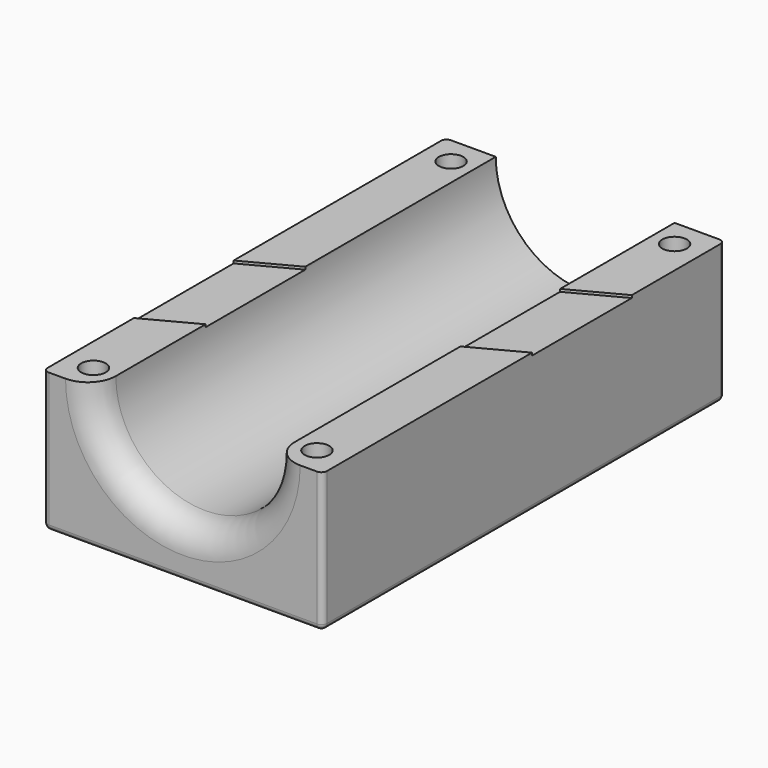
from build123d import *

# Parameters (mm, degrees)
F1_DEPTH = 90
F3_D     = 4.4
F3_DEPTH = 12
F3_TIP   = 1.3218933619
F4_R     = 5
F6_DEPTH = 0.46
F7_R     = 1
F9_D     = 4.4
F9_DEPTH = 12
F9_TIP   = 1.3218933619


with BuildPart() as f1:
    # F0 (on Front) → F1 (new body)
    with BuildSketch(Plane.XZ):
        with BuildLine():
            Line((-25, -25), (25, -25))
            Line((25, -25), (25, 0))
            Line((25, 0), (16, 0))
            ThreePointArc((16, 0), (0, -16), (-16, 0))
            Line((-16, 0), (-25, 0))
            Line((-25, 0), (-25, -25))
        make_face()
    extrude(amount=F1_DEPTH)

    # F3
    with Locations(Plane.XY):
        with Locations((-20, -5), (20, -5), (20, -85), (-20, -85)):
            Hole(F3_D / 2, depth=F3_DEPTH)
            with Locations((0, 0, -(F3_DEPTH + F3_TIP / 2))):  # 118° drill point
                Cone(0, F3_D / 2, F3_TIP, mode=Mode.SUBTRACT)

    # F4
    f4_edges = [f1.edges().sort_by_distance(p)[0] for p in [
        (0, -90, -16),
    ]]
    fillet(f4_edges, radius=F4_R)

    # F5 (on face) → F6 (cut)
    with BuildSketch(Plane.XY):
        Polygon((-16, -42.614615115), (-16, -64.914615115), (31.2709680734, -39.7801955466), (31.2709680734, -17.4801955466), align=None)
        Polygon((-25, -47.4), (-25, -69.7), (-16, -64.914615115), (-16, -42.614615115), align=None)
    extrude(amount=-F6_DEPTH, mode=Mode.SUBTRACT)

    # F7
    f7_edges = [f1.edges().sort_by_distance(p)[0] for p in [
        (25, -90, -12.5),
        (25, -45, -25),
        (25, 0, -12.5),
        (0, -90, -25),
        (-25, -90, -12.5),
        (0, 0, -25),
        (-25, 0, -12.5),
        (-25, -45, -25),
    ]]
    fillet(f7_edges, radius=F7_R)

    # F9
    with Locations(Plane(origin=(0, 0, -25), x_dir=(1, 0, 0), z_dir=(0, 0, -1))):
        with Locations((20, 30), (-20, 30), (-20, 60), (20, 60)):
            Hole(F9_D / 2, depth=F9_DEPTH)
            with Locations((0, 0, -(F9_DEPTH + F9_TIP / 2))):  # 118° drill point
                Cone(0, F9_D / 2, F9_TIP, mode=Mode.SUBTRACT)


solid = f1.part
